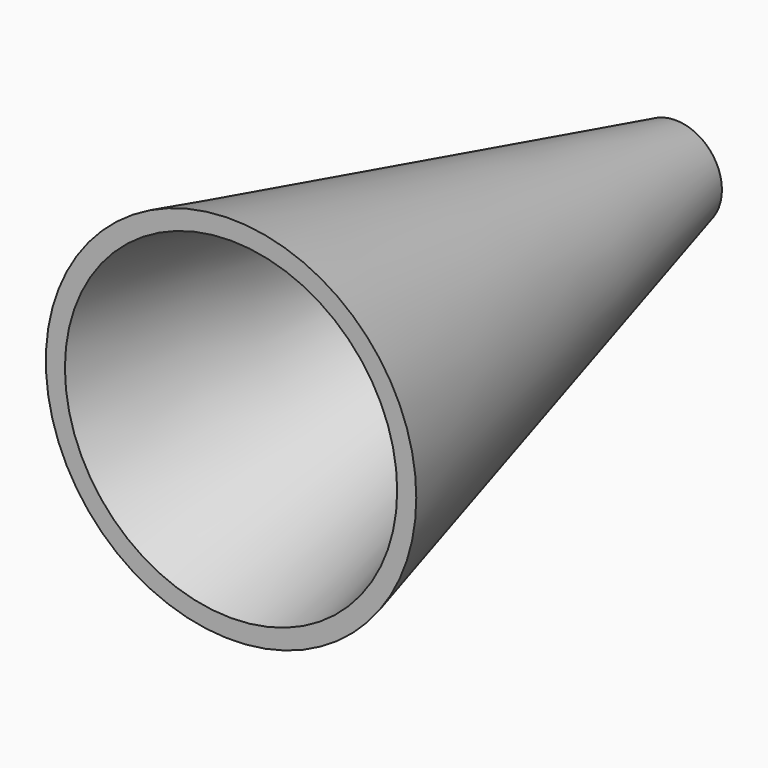
from build123d import *

# Parameters (mm, degrees)
F1_R = 50.8
F2_R = 12.7
F4_T = -5.08


with BuildPart() as f3:
    # F1 (on offset) → F3 section 0
    with BuildSketch(Plane.XZ.offset(152.4)):
        Circle(F1_R)
    # F2 (on Front) → F3 section 1
    with BuildSketch(Plane.XZ):
        Circle(F2_R)
    loft()

    # F4
    f4_openings = [f3.faces().sort_by_distance(p)[0] for p in [
        (0, -152.4, 0),
    ]]
    offset(amount=F4_T, openings=f4_openings, kind=Kind.INTERSECTION)


solid = f3.part
